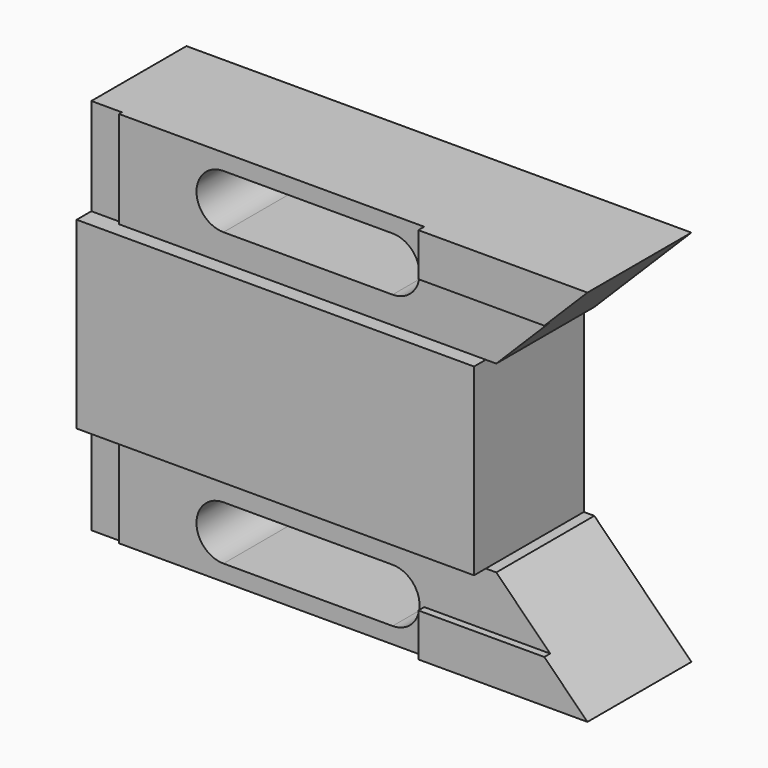
from build123d import *

# Parameters (mm, degrees)
F1_DEPTH = 28.448
F2_DEPTH = 25.4
F3_DEPTH = 26.924
F4_DEPTH = 26.924
F0_W     = 6.35
F0_H     = 20.115774
F5_DEPTH = 24.638


with BuildPart() as f1:
    # F0 (on Front) → F1 (new body)
    with BuildSketch(Plane.XZ):
        Polygon((0, 0), (0, -19.05), (6.35, -19.05), (82.361273, -19.05), (82.361273, 19.05), (6.35, 19.05), (0, 19.05), align=None)
    extrude(amount=F1_DEPTH)

    # F0 (on Front) → F2 (join)
    with BuildSketch(Plane.XZ):
        Polygon((6.35, 19.05), (82.361273, 19.05), (84.532226, 19.05), (95.708226, 30.226), (69.596, 30.226), (69.596, 39.165774), (6.35, 39.165774), align=None)
        with BuildLine():
            Line((27.993083, 35.814), (63.045083, 35.814))
            ThreePointArc((63.045083, 35.814), (68.633083, 30.226), (63.045083, 24.638))
            Line((63.045083, 24.638), (27.993083, 24.638))
            ThreePointArc((27.993083, 24.638), (22.405083, 30.226), (27.993083, 35.814))
        make_face(mode=Mode.SUBTRACT)
        Polygon((6.35, -19.05), (6.35, -39.165774), (69.596, -39.165774), (69.596, -30.226), (95.708226, -30.226), (84.532226, -19.05), (82.361273, -19.05), align=None)
        with BuildLine():
            ThreePointArc((27.993083, -35.814), (22.405083, -30.226), (27.993083, -24.638))
            Line((27.993083, -24.638), (63.045083, -24.638))
            ThreePointArc((63.045083, -24.638), (68.633083, -30.226), (63.045083, -35.814))
            Line((63.045083, -35.814), (27.993083, -35.814))
        make_face(mode=Mode.SUBTRACT)
    extrude(amount=F2_DEPTH)

    # F0 (on Front) → F3 (join)
    with BuildSketch(Plane.XZ):
        Polygon((69.596, -30.226), (69.596, -39.165774), (104.648, -39.165774), (95.708226, -30.226), align=None)
    extrude(amount=F3_DEPTH)

    # F0 (on Front) → F4 (join)
    with BuildSketch(Plane.XZ):
        Polygon((69.596, 30.226), (95.708226, 30.226), (104.648, 39.165774), (69.596, 39.165774), align=None)
    extrude(amount=F4_DEPTH)

    # F0 (on Front) → F5 (join)
    with BuildSketch(Plane.XZ):
        with Locations((3.175, -29.107887)):
            Rectangle(F0_W, F0_H)
        with Locations((3.175, 29.107887)):
            Rectangle(F0_W, F0_H)
    extrude(amount=F5_DEPTH)


solid = f1.part
